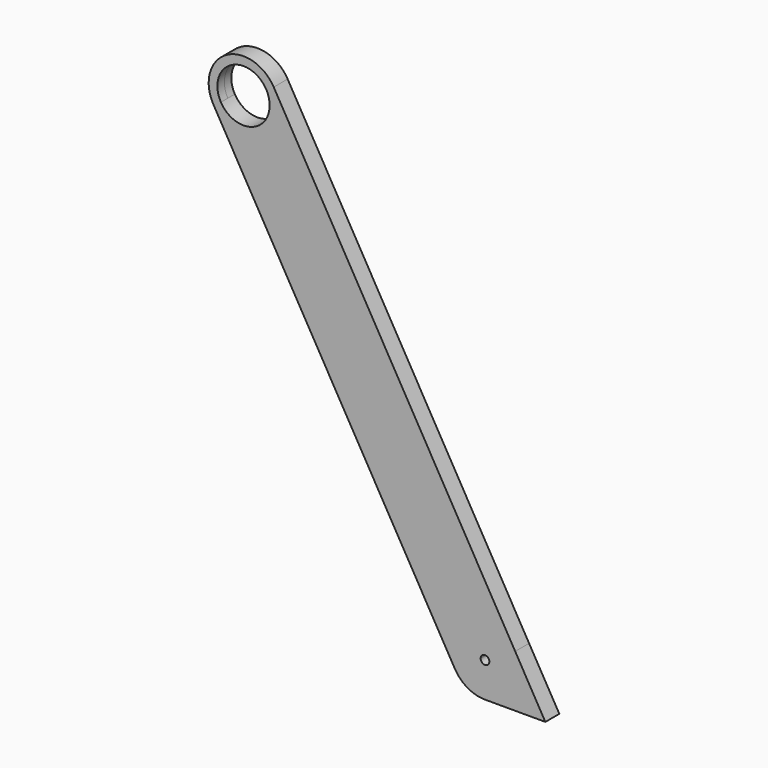
from build123d import *

# Parameters (mm, degrees)
F1_DEPTH = 3.175


with BuildPart() as f1:
    # F0 (on Front) → F1 (new body, symmetric)
    with BuildSketch(Plane.XZ):
        with BuildLine():
            ThreePointArc((100.6881810245, -152.4), (96.9684371456, -161.3802561211), (87.9881810245, -165.1))
            Line((87.9881810245, -165.1), (109.9852262806, -165.1))
            Line((109.9852262806, -165.1), (98.9867036526, -146.05))
            ThreePointArc((98.9867036526, -146.05), (100.2554390184, -149.1129981272), (100.6881810245, -152.4))
        make_face()
        with BuildLine():
            Line((86.4006810245, -152.4), (75.2881810245, -152.4))
            ThreePointArc((75.2881810245, -152.4), (75.7209230306, -155.6870018728), (76.9896583964, -158.75))
            ThreePointArc((76.9896583964, -158.75), (81.6381810245, -163.3985226281), (87.9881810245, -165.1))
            ThreePointArc((87.9881810245, -165.1), (96.9684371456, -161.3802561211), (100.6881810245, -152.4))
            ThreePointArc((100.6881810245, -152.4), (100.2554390184, -149.1129981272), (98.9867036526, -146.05))
            ThreePointArc((98.9867036526, -146.05), (94.3381810245, -141.4014773719), (87.9881810245, -139.7))
            ThreePointArc((87.9881810245, -139.7), (84.7011791517, -140.1327420061), (81.6381810245, -141.4014773719))
            Line((81.6381810245, -141.4014773719), (87.1944310245, -151.0251846715))
            ThreePointArc((87.1944310245, -151.0251846715), (88.7819310245, -151.0251846715), (89.5756810245, -152.4))
            ThreePointArc((89.5756810245, -152.4), (87.9881810245, -153.9875), (86.4006810245, -152.4))
        make_face()
        with BuildLine():
            ThreePointArc((81.6381810245, -141.4014773719), (76.9896583964, -146.05), (75.2881810245, -152.4))
            Line((75.2881810245, -152.4), (86.4006810245, -152.4))
            ThreePointArc((86.4006810245, -152.4), (86.613365696, -151.60625), (87.1944310245, -151.0251846715))
            Line((87.1944310245, -151.0251846715), (81.6381810245, -141.4014773719))
        make_face()
        with BuildLine():
            Line((65.9911357684, -139.7), (73.3234841871, -152.4))
            Line((73.3234841871, -152.4), (75.2881810245, -152.4))
            ThreePointArc((75.2881810245, -152.4), (76.9896583964, -146.05), (81.6381810245, -141.4014773719))
            Line((81.6381810245, -141.4014773719), (80.6558326058, -139.7))
            Line((80.6558326058, -139.7), (65.9911357684, -139.7))
        make_face()
        with BuildLine():
            Line((80.6558326058, -139.7), (81.6381810245, -141.4014773719))
            ThreePointArc((81.6381810245, -141.4014773719), (84.7011791517, -140.1327420061), (87.9881810245, -139.7))
            Line((87.9881810245, -139.7), (80.6558326058, -139.7))
        make_face()
        with BuildLine():
            Line((6.35, -10.9985226281), (80.6558326058, -139.7))
            Line((80.6558326058, -139.7), (87.9881810245, -139.7))
            ThreePointArc((87.9881810245, -139.7), (94.3381810245, -141.4014773719), (98.9867036526, -146.05))
            Line((98.9867036526, -146.05), (10.9985226281, 6.35))
            ThreePointArc((10.9985226281, 6.35), (12.2672579939, 3.2870018728), (12.7, 0))
            ThreePointArc((12.7, 0), (10.9985226281, -6.35), (6.35, -10.9985226281))
        make_face()
        Polygon((-4.6485226281, -17.3485226281), (65.9911357684, -139.7), (80.6558326058, -139.7), (6.35, -10.9985226281), align=None)
        with BuildLine():
            Line((75.2881810245, -152.4), (73.3234841871, -152.4))
            Line((73.3234841871, -152.4), (76.9896583964, -158.75))
            ThreePointArc((76.9896583964, -158.75), (75.7209230306, -155.6870018728), (75.2881810245, -152.4))
        make_face()
        with BuildLine():
            Line((-8.248891971, -4.7625), (-10.9985226281, -6.35))
            ThreePointArc((-10.9985226281, -6.35), (-3.2870018728, -12.2672579939), (6.35, -10.9985226281))
            Line((6.35, -10.9985226281), (4.7625, -8.248891971))
            ThreePointArc((4.7625, -8.248891971), (-2.4652514046, -9.2004434954), (-8.248891971, -4.7625))
        make_face()
        with BuildLine():
            ThreePointArc((-6.35, 10.9985226281), (-12.2672579939, 3.2870018728), (-10.9985226281, -6.35))
            Line((-10.9985226281, -6.35), (-8.248891971, -4.7625))
            ThreePointArc((-8.248891971, -4.7625), (-2.4652514046, 9.2004434954), (9.525, 0))
            ThreePointArc((9.525, 0), (8.248891971, -4.7625), (4.7625, -8.248891971))
            Line((4.7625, -8.248891971), (6.35, -10.9985226281))
            ThreePointArc((6.35, -10.9985226281), (10.9985226281, -6.35), (12.7, 0))
            ThreePointArc((12.7, 0), (12.2672579939, 3.2870018728), (10.9985226281, 6.35))
            ThreePointArc((10.9985226281, 6.35), (3.2870018728, 12.2672579939), (-6.35, 10.9985226281))
        make_face()
        with BuildLine():
            Line((-10.9985226281, -6.35), (-4.6485226281, -17.3485226281))
            Line((-4.6485226281, -17.3485226281), (6.35, -10.9985226281))
            ThreePointArc((6.35, -10.9985226281), (-3.2870018728, -12.2672579939), (-10.9985226281, -6.35))
        make_face()
    extrude(amount=F1_DEPTH, both=True)


solid = f1.part
